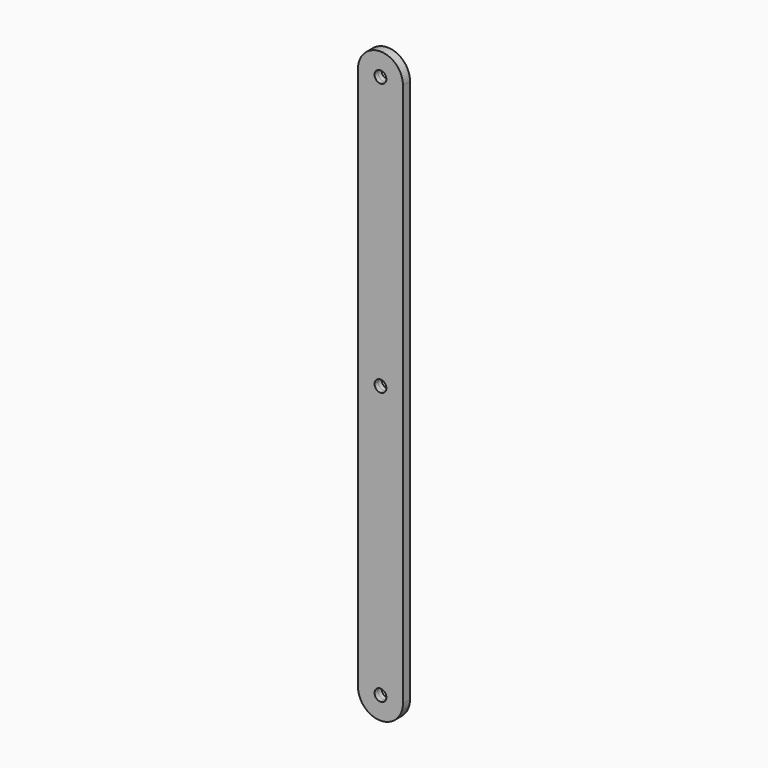
from build123d import *

# Parameters (mm, degrees)
F1_DEPTH = 1.5


with BuildPart() as f1:
    # F0 (on Front) → F1 (new body, symmetric)
    with BuildSketch(Plane.XZ):
        with BuildLine():
            ThreePointArc((7.625, 92.375), (5.3916892065, 97.7666892065), (0, 100))
            Line((0, 100), (0, 94.375))
            ThreePointArc((0, 94.375), (1.4142135624, 93.7892135624), (2, 92.375))
            ThreePointArc((2, 92.375), (1.4142135624, 90.9607864376), (0, 90.375))
            Line((0, 90.375), (0, 2))
            ThreePointArc((0, 2), (1.4142135624, 1.4142135624), (2, 0))
            Line((2, 0), (7.625, 0))
            Line((7.625, 0), (7.625, 92.375))
        make_face()
        with BuildLine():
            ThreePointArc((0, 100), (-5.3916892065, 97.7666892065), (-7.625, 92.375))
            Line((-7.625, 92.375), (-7.625, 0))
            Line((-7.625, 0), (-2, 0))
            ThreePointArc((-2, 0), (-1.4142135624, 1.4142135624), (0, 2))
            Line((0, 2), (0, 90.375))
            ThreePointArc((0, 90.375), (-2, 92.375), (0, 94.375))
            Line((0, 94.375), (0, 100))
        make_face()
        with BuildLine():
            Line((-2, 0), (-7.625, 0))
            Line((-7.625, 0), (-7.625, -92.375))
            ThreePointArc((-7.625, -92.375), (-5.3916892065, -97.7666892065), (0, -100))
            Line((0, -100), (0, -94.375))
            ThreePointArc((0, -94.375), (-2, -92.375), (0, -90.375))
            Line((0, -90.375), (0, -2))
            ThreePointArc((0, -2), (-1.4142135624, -1.4142135624), (-2, 0))
        make_face()
        with BuildLine():
            Line((0, -94.375), (0, -100))
            ThreePointArc((0, -100), (5.3916892065, -97.7666892065), (7.625, -92.375))
            Line((7.625, -92.375), (7.625, 0))
            Line((7.625, 0), (2, 0))
            ThreePointArc((2, 0), (1.4142135624, -1.4142135624), (0, -2))
            Line((0, -2), (0, -90.375))
            ThreePointArc((0, -90.375), (1.4142135624, -90.9607864376), (2, -92.375))
            ThreePointArc((2, -92.375), (1.4142135624, -93.7892135624), (0, -94.375))
        make_face()
    extrude(amount=F1_DEPTH, both=True)


solid = f1.part
